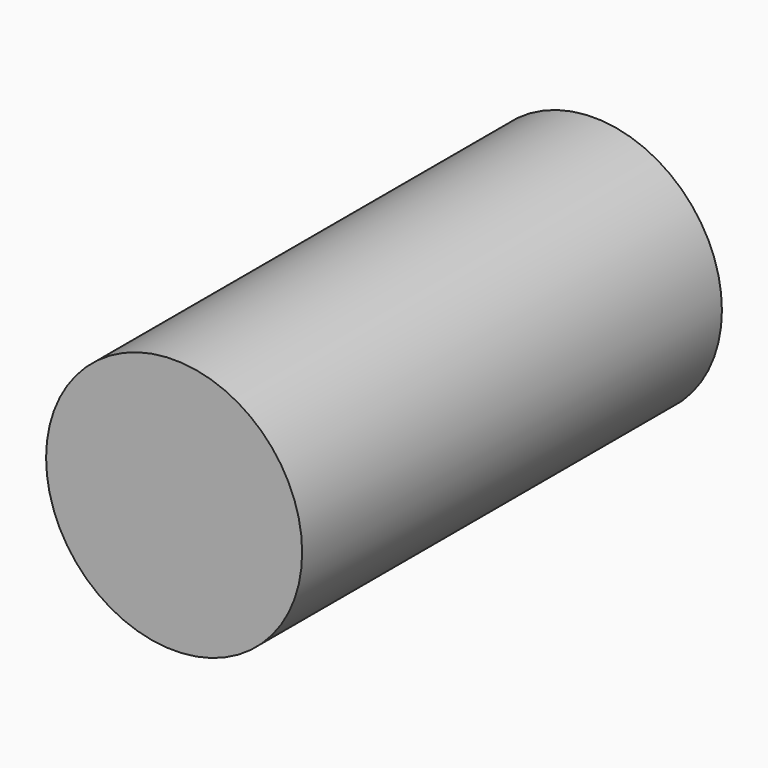
from build123d import *

# Parameters (mm, degrees)
F0_R     = 16.979872
F1_DEPTH = 73
F2_R     = 27.197587
F3_R     = 15.103287
F4_DEPTH = 61.9


with BuildPart() as f1:
    # F0 (on Front) → F1 (new body)
    with BuildSketch(Plane.XZ):
        Polygon((27.902432, 53.963579), (-62.461782, 53.963579), (-43.482464, -46.598472), (49.431205, -19.404227), (30.168617, 24.503149), align=None)
        with Locations((-25.352968, 16.004948)):
            Circle(F0_R, mode=Mode.SUBTRACT)
    extrude(amount=F1_DEPTH)

    # F2
    f2_edges = [f1.edges().sort_by_distance(p)[0] for p in [
        (49.431205, -36.5, -19.404227),
    ]]
    fillet(f2_edges, radius=F2_R)

    # F3 (on face) → F4 (intersect)
    with BuildSketch(Plane.XZ.offset(73)):
        with Locations((11.919588, 11.299165)):
            Circle(F3_R)
    extrude(amount=-F4_DEPTH, mode=Mode.INTERSECT)


solid = f1.part
